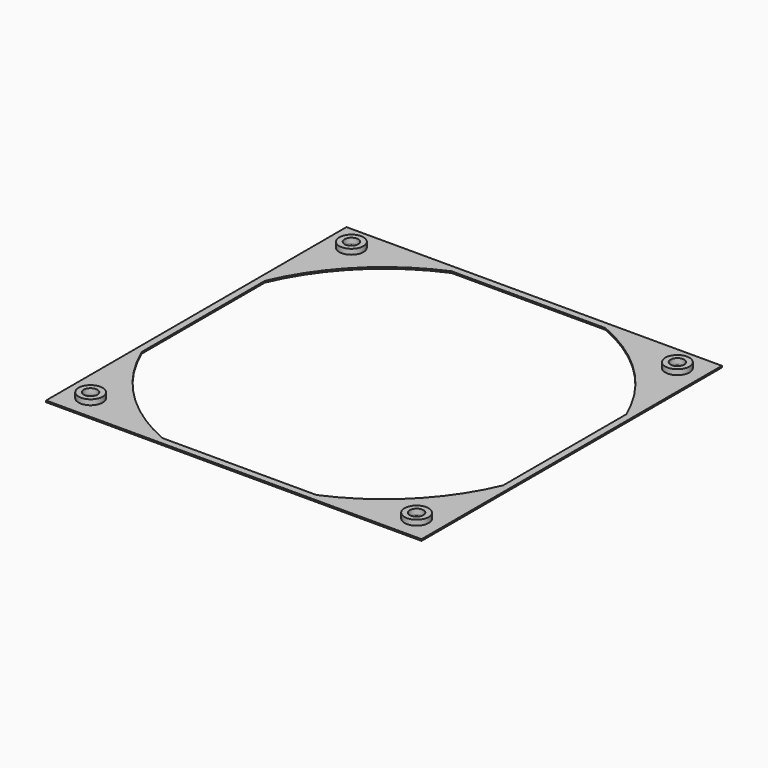
from build123d import *

# Parameters (mm, degrees)
F1_W     = 143.4
F1_H     = 143.4
F3_DEPTH = 0.6
F2_R     = 2.7
F4_DEPTH = 0.601
F5_R     = 4.6
F5_R_2   = 2.6
F6_DEPTH = 2


with BuildPart() as f3:
    # F1 (on Top) → F3 (new body)
    with BuildSketch(Plane.XY):
        Rectangle(F1_W, F1_H)
        with BuildLine():
            ThreePointArc((-69, 29.393877), (-53.033009, 53.033009), (-29.393877, 69))
            Line((-29.393877, 69), (29.393877, 69))
            ThreePointArc((29.393877, 69), (53.033009, 53.033009), (69, 29.393877))
            Line((69, 29.393877), (69, -29.393877))
            ThreePointArc((69, -29.393877), (53.033009, -53.033009), (29.393877, -69))
            Line((29.393877, -69), (-29.393877, -69))
            ThreePointArc((-29.393877, -69), (-53.033009, -53.033009), (-69, -29.393877))
            Line((-69, -29.393877), (-69, 29.393877))
        make_face(mode=Mode.SUBTRACT)
    extrude(amount=-F3_DEPTH)

    # F2 (on Top) → F4 (cut, through all)
    with BuildSketch(Plane.XY):
        with Locations((62.25, 62.25)):
            Circle(F2_R)
        with Locations((-62.25, 62.25)):
            Circle(F2_R)
        with Locations((-62.25, -62.25)):
            Circle(F2_R)
        with Locations((62.25, -62.25)):
            Circle(F2_R)
    extrude(amount=-F4_DEPTH, mode=Mode.SUBTRACT)

    # F5 (on Top) → F6 (join)
    with BuildSketch(Plane.XY):
        with Locations((-62.25, 62.25)):
            Circle(F5_R)
        with Locations((-62.25, 62.25)):
            Circle(F5_R_2, mode=Mode.SUBTRACT)
        with Locations((-62.25, -62.25)):
            Circle(F5_R)
        with Locations((-62.25, -62.25)):
            Circle(F5_R_2, mode=Mode.SUBTRACT)
        with Locations((62.25, -62.25)):
            Circle(F5_R)
        with Locations((62.25, -62.25)):
            Circle(F5_R_2, mode=Mode.SUBTRACT)
        with Locations((62.25, 62.25)):
            Circle(F5_R)
        with Locations((62.25, 62.25)):
            Circle(F5_R_2, mode=Mode.SUBTRACT)
    extrude(amount=F6_DEPTH)


solid = f3.part
